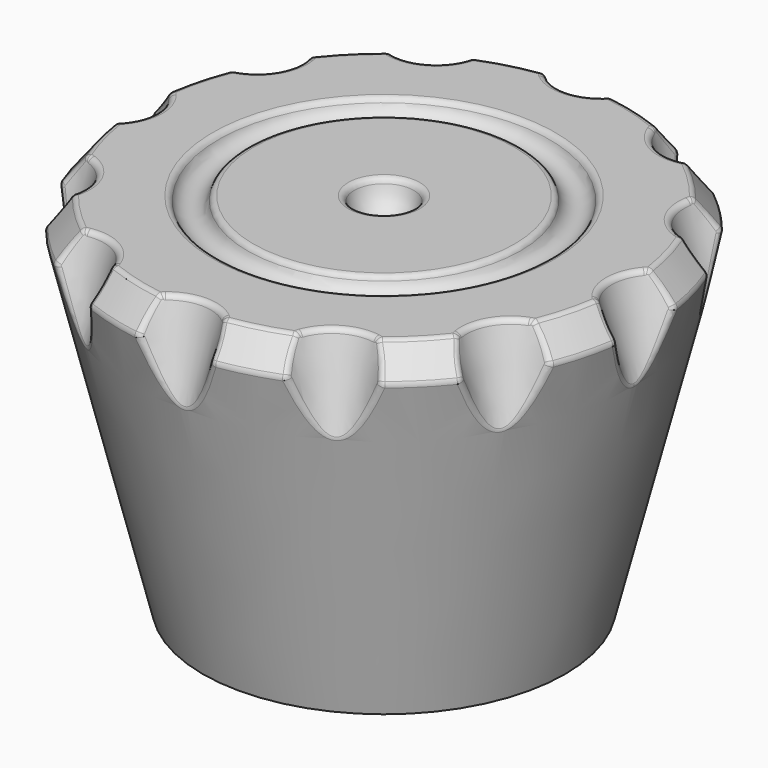
from build123d import *

# Parameters (mm, degrees)
CHAMFER_SIZE       = 1
FILLET_R           = 0.2
FILLET001_R        = 0.2
FILLET002_R        = 0.2
FILLET003_R        = 0.2
FILLET004_R        = 0.2
FILLET005_R        = 0.2
POLARPATTERN_COUNT = 12
FILLET006_R        = 0.2
FILLET007_R        = 0.2
FILLET008_R        = 0.2
FILLET009_R        = 0.2
FILLET010_R        = 0.2
FILLET011_R        = 0.2
FILLET012_R        = 0.2
FILLET013_R        = 0.2
FILLET014_R        = 0.2
FILLET015_R        = 0.2
FILLET016_R        = 0.2


with BuildPart() as part:
    # Sketch → Revolution (revolve)
    with BuildSketch(Plane.XZ):
        with BuildLine():
            Line((0, 0), (0, 11))
            ThreePointArc((0, 11), (0.707107, 11.292893), (1, 12))
            Line((1, 12), (4.5, 12))
            ThreePointArc((4.5, 12), (5, 11.5), (5.5, 12))
            Line((5.5, 12), (9, 12))
            Line((6, 0), (9, 12))
            Line((0, 0), (6, 0))
        make_face()
    revolve(axis=Axis((0, 0, 0), (0, 0, 1)))

    # Chamfer
    chamfer_edges = [part.edges().sort_by_distance(p)[0] for p in [
        (-9, 0, 12),
    ]]
    chamfer(chamfer_edges, length=CHAMFER_SIZE)

    # Fillet
    fillet_edges = [part.edges().sort_by_distance(p)[0] for p in [
        (-1, 0, 12),
    ]]
    fillet(fillet_edges, radius=FILLET_R)

    # Fillet001
    fillet001_edges = [part.edges().sort_by_distance(p)[0] for p in [
        (-4.5, 0, 12),
    ]]
    fillet(fillet001_edges, radius=FILLET001_R)

    # Fillet002
    fillet002_edges = [part.edges().sort_by_distance(p)[0] for p in [
        (-5.5, 0, 12),
    ]]
    fillet(fillet002_edges, radius=FILLET002_R)

    # Fillet003
    fillet003_edges = [part.edges().sort_by_distance(p)[0] for p in [
        (-8, 0, 12),
    ]]
    fillet(fillet003_edges, radius=FILLET003_R)

    # Fillet004
    fillet004_edges = [part.edges().sort_by_distance(p)[0] for p in [
        (-8.757464, 0, 11.029857),
    ]]
    fillet(fillet004_edges, radius=FILLET004_R)

    # Cone → Cone (revolve, cut)
    with BuildSketch(Plane(origin=(-9, 0, 6.65), x_dir=(0, -1, 0), z_dir=(-1, 0, 0))):
        Polygon((0, 0), (1.5, 5.35), (0, 5.35), align=None)
    cone = revolve(axis=Axis((-9, 0, 6.65), (0, 0, 1)), mode=Mode.SUBTRACT)

    # Fillet005
    fillet005_edges = [part.edges().sort_by_distance(p)[0] for p in [
        (-7.5, 0, 12),
    ]]
    fillet(fillet005_edges, radius=FILLET005_R)

    # PolarPattern: Cone ×12 about axis
    polarpattern_axis = Axis((0, 0, 0), (0, 0, 1))
    for i in range(1, POLARPATTERN_COUNT):
        add(cone.rotate(polarpattern_axis, i * 360 / POLARPATTERN_COUNT), mode=Mode.SUBTRACT)

    # Fillet006
    fillet006_edges = [part.edges().sort_by_distance(p)[0] for p in [
        (-7.769144, -3.136044, 11.5156),
    ]]
    fillet(fillet006_edges, radius=FILLET006_R)

    # Fillet007
    fillet007_edges = [part.edges().sort_by_distance(p)[0] for p in [
        (-3.75, -6.495191, 12),
    ]]
    fillet(fillet007_edges, radius=FILLET007_R)

    # Fillet008
    fillet008_edges = [part.edges().sort_by_distance(p)[0] for p in [
        (0, -7.5, 12),
    ]]
    fillet(fillet008_edges, radius=FILLET008_R)

    # Fillet009
    fillet009_edges = [part.edges().sort_by_distance(p)[0] for p in [
        (3.75, -6.495191, 12),
    ]]
    fillet(fillet009_edges, radius=FILLET009_R)

    # Fillet010
    fillet010_edges = [part.edges().sort_by_distance(p)[0] for p in [
        (6.495191, -3.75, 12),
    ]]
    fillet(fillet010_edges, radius=FILLET010_R)

    # Fillet011
    fillet011_edges = [part.edges().sort_by_distance(p)[0] for p in [
        (7.5, 0, 12),
    ]]
    fillet(fillet011_edges, radius=FILLET011_R)

    # Fillet012
    fillet012_edges = [part.edges().sort_by_distance(p)[0] for p in [
        (-6.495191, 3.75, 12),
    ]]
    fillet(fillet012_edges, radius=FILLET012_R)

    # Fillet013
    fillet013_edges = [part.edges().sort_by_distance(p)[0] for p in [
        (-3.75, 6.495191, 12),
    ]]
    fillet(fillet013_edges, radius=FILLET013_R)

    # Fillet014
    fillet014_edges = [part.edges().sort_by_distance(p)[0] for p in [
        (0, 7.5, 12),
    ]]
    fillet(fillet014_edges, radius=FILLET014_R)

    # Fillet015
    fillet015_edges = [part.edges().sort_by_distance(p)[0] for p in [
        (3.75, 6.495191, 12),
    ]]
    fillet(fillet015_edges, radius=FILLET015_R)

    # Fillet016
    fillet016_edges = [part.edges().sort_by_distance(p)[0] for p in [
        (6.495191, 3.75, 12),
    ]]
    fillet(fillet016_edges, radius=FILLET016_R)


solid = part.part
